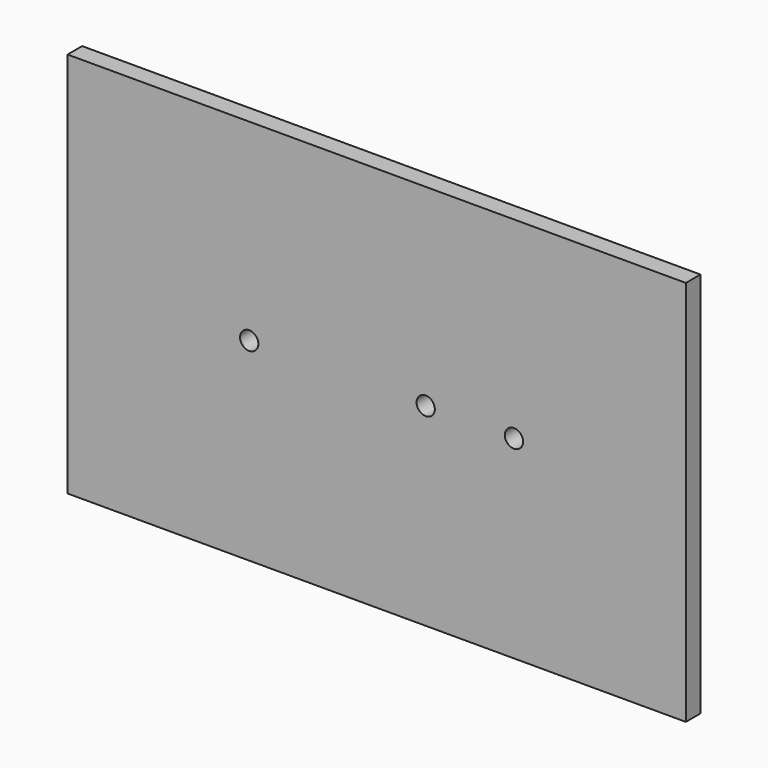
from build123d import *

# Parameters (mm, degrees)
F0_W     = 101.6
F0_H     = 63.5
F0_R     = 1.5
F1_DEPTH = 3


with BuildPart() as f1:
    # F0 (on Front) → F1 (new body)
    with BuildSketch(Plane.XZ):
        with Locations((-1.905587, -4.706505)):
            Rectangle(F0_W, F0_H)
        with Locations((-22.854371, -4.62769)):
            Circle(F0_R, mode=Mode.SUBTRACT)
        with Locations((6.145629, -4.62769)):
            Circle(F0_R, mode=Mode.SUBTRACT)
        with Locations((20.645629, -4.62769)):
            Circle(F0_R, mode=Mode.SUBTRACT)
        with Locations((-1.905587, -4.706505)):
            Rectangle(F0_W, F0_H)
        with Locations((-22.854371, -4.62769)):
            Circle(F0_R, mode=Mode.SUBTRACT)
        with Locations((6.145629, -4.62769)):
            Circle(F0_R, mode=Mode.SUBTRACT)
        with Locations((20.645629, -4.62769)):
            Circle(F0_R, mode=Mode.SUBTRACT)
    extrude(amount=F1_DEPTH)


solid = f1.part
